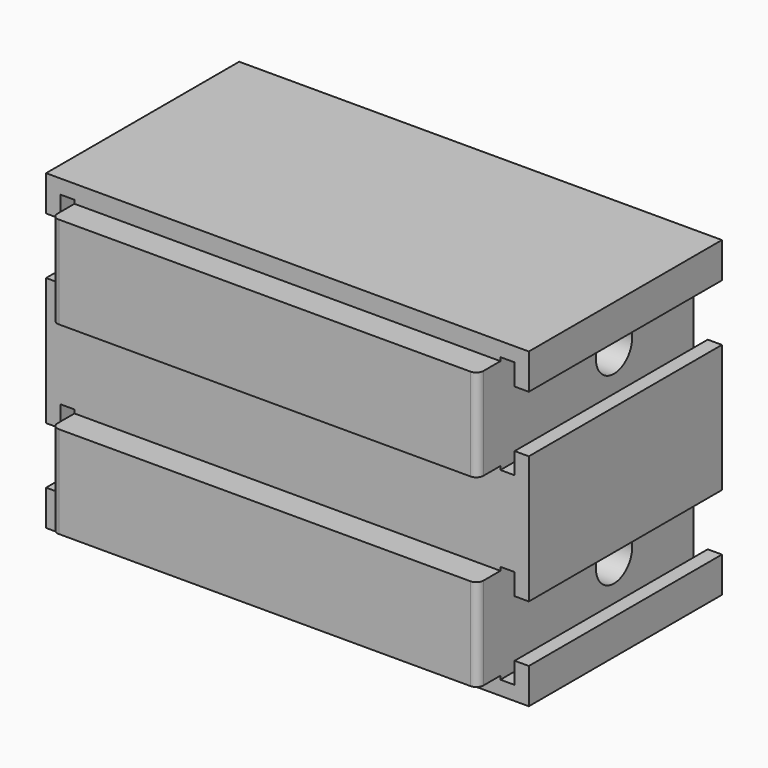
from build123d import *

# Parameters (mm, degrees)
F0_W      = 34
F0_H      = 22
F1_DEPTH  = 17
F3_DEPTH  = 17.001
F4_W      = 30
F4_H      = 6.5
F5_DEPTH  = 2
F7_R      = 1.6
F8_DEPTH  = 5
F10_R     = 1.6
F11_DEPTH = 5
F12_R     = 0.5


with BuildPart() as f1:
    # F0 (on Front) → F1 (new body)
    with BuildSketch(Plane.XZ):
        Rectangle(F0_W, F0_H)
    extrude(amount=-F1_DEPTH)

    # F2 (on face) → F3 (cut, through all)
    with BuildSketch(Plane.XZ):
        Polygon((-16, 8.5), (-17, 8.5), (-17, 4.5), (-16, 4.5), (-16, 3), (-15, 3), (-15, 10), (-16, 10), align=None)
        Polygon((15, 10), (15, 3), (16, 3), (16, 4.5), (17, 4.5), (17, 8.5), (16, 8.5), (16, 10), align=None)
        Polygon((17, -4.5), (16, -4.5), (16, -3), (15, -3), (15, -10), (16, -10), (16, -8.5), (17, -8.5), align=None)
        Polygon((-17, -4.5), (-17, -8.5), (-16, -8.5), (-16, -10), (-15, -10), (-15, -3), (-16, -3), (-16, -4.5), align=None)
    extrude(amount=-F3_DEPTH, mode=Mode.SUBTRACT)

    # F4 (on face) → F5 (join)
    with BuildSketch(Plane.XZ):
        with Locations((0, 6.5)):
            Rectangle(F4_W, F4_H)
        with Locations((0, -6.5)):
            Rectangle(F4_W, F4_H)
    extrude(amount=F5_DEPTH)

    # F7 (on offset) → F8 (cut)
    with BuildSketch(Plane(origin=(-15, 0, 0), x_dir=(0, -1, 0), z_dir=(-1, 0, 0))):
        with Locations((-10, 6.5)):
            Circle(F7_R)
        with Locations((-10, -6.5)):
            Circle(F7_R)
    extrude(amount=-F8_DEPTH, mode=Mode.SUBTRACT)

    # F10 (on offset) → F11 (cut)
    with BuildSketch(Plane.YZ.offset(15)):
        with Locations((10, 6.5)):
            Circle(F10_R)
        with Locations((10, -6.5)):
            Circle(F10_R)
    extrude(amount=-F11_DEPTH, mode=Mode.SUBTRACT)

    # F12
    f12_edges = [f1.edges().sort_by_distance(p)[0] for p in [
        (15, -2, 6.5),
        (-15, -2, 6.5),
        (15, -2, -6.5),
        (-15, -2, -6.5),
    ]]
    fillet(f12_edges, radius=F12_R)


solid = f1.part
